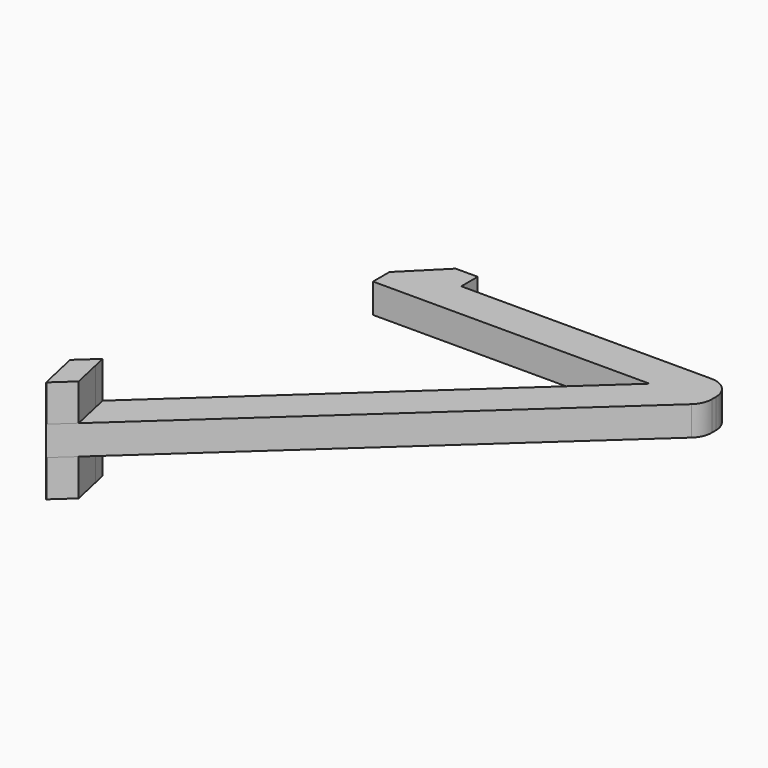
from build123d import *

# Parameters (mm, degrees)
F0_W           = 5
F0_H           = 5
F1_DEPTH       = 4
F2_R           = 3
F3_W           = 8
F3_H           = 4
F4_DEPTH       = 2.8
F5_SIZE        = 5
F7_W           = 5.774
F7_H           = 5
F8_DEPTH       = 3
F10_DEPTH      = 25
F10_DEPTH_BACK = 25
F11_DEPTH      = 9
F11_DEPTH_BACK = 5


with BuildPart() as f1:
    # F0 (on Top) → F1 (new body)
    with BuildSketch(Plane.XY):
        Polygon((0, 0), (-40, 0), (-40, -5), (-7.4009361646, -5), (0, -5), align=None)
        Polygon((-51.6094135767, -52.2913145331), (0, -5), (-7.4009361646, -5), (-52.8590282704, -46.6546669079), align=None)
        with Locations((-42.5, -2.5)):
            Rectangle(F0_W, F0_H)
    extrude(amount=F1_DEPTH)

    # F2
    f2_edges = [f1.edges().sort_by_distance(p)[0] for p in [
        (0, 0, 2),
        (0, -5, 2),
    ]]
    fillet(f2_edges, radius=F2_R)

    # F3 (on Front) → F4 (join)
    with BuildSketch(Plane.XZ):
        with Locations((-41, 2)):
            Rectangle(F3_W, F3_H)
    extrude(amount=-F4_DEPTH)

    # F5
    f5_edges = [f1.edges().sort_by_distance(p)[0] for p in [
        (-45, 2.8, 2),
    ]]
    chamfer(f5_edges, length=F5_SIZE)

    # F7 (on offset) → F8 (join)
    with BuildSketch(Plane(origin=(-60.2413457189, -13.3551848163, 0), x_dir=(0.2164396139, -0.9762960071, 0), z_dir=(-0.9762960071, -0.2164396139, 0))):
        with Locations((36.9775523019, 6.5)):
            Rectangle(F7_W, F7_H)
        with Locations((36.9775523019, -2.5)):
            Rectangle(F7_W, F7_H)
    extrude(amount=-F8_DEPTH)

    # F9 (on Top) → F10 (cut, two sides)
    with BuildSketch(Plane.XY) as f10_sk:
        Polygon((-48.0777584016, -51.715362817), (-48.6127237734, -49.5453542475), (-51.6094135767, -52.2913145331), align=None)
    extrude(amount=F10_DEPTH, mode=Mode.SUBTRACT)
    extrude(f10_sk.sketch, amount=-F10_DEPTH_BACK, mode=Mode.SUBTRACT)

    # F9 (on Top) → F11 (join, two sides)
    with BuildSketch(Plane.XY) as f11_sk:
        Polygon((-49.9261649251, -45.9886011426), (-50.3040521353, -44.313404132), (-52.8526316454, -46.6487469866), align=None)
    extrude(amount=F11_DEPTH)
    extrude(f11_sk.sketch, amount=-F11_DEPTH_BACK)


solid = f1.part
